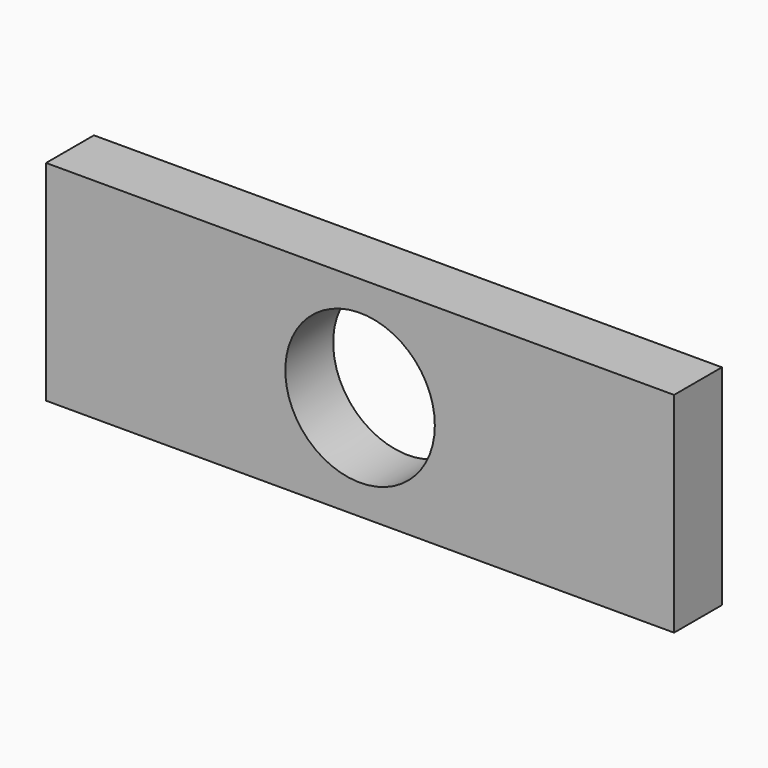
from build123d import *

# Parameters (mm, degrees)
F0_W     = 66.675
F0_H     = 22.225
F0_R     = 7.9375
F1_DEPTH = 6.35


with BuildPart() as f1:
    # F0 (on Front) → F1 (new body)
    with BuildSketch(Plane.XZ):
        Rectangle(F0_W, F0_H)
        Circle(F0_R, mode=Mode.SUBTRACT)
    extrude(amount=-F1_DEPTH)


solid = f1.part
